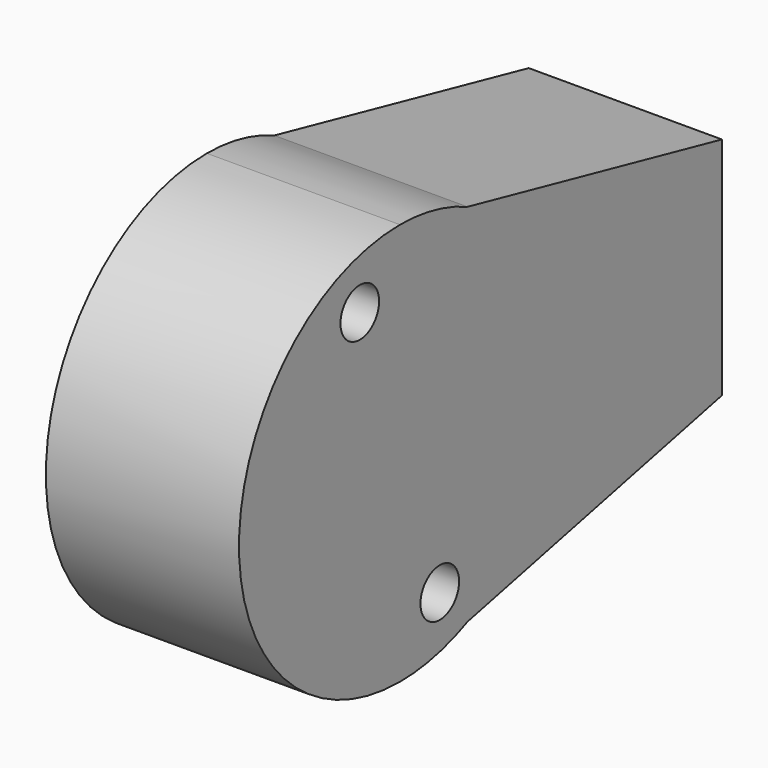
from build123d import *

# Parameters (mm, degrees)
F1_DEPTH = 12
F2_R     = 4
F3_DEPTH = 10
F4_R     = 7.55
F5_DEPTH = 4
F6_R     = 1.5
F7_DEPTH = 25


with BuildPart() as f1:
    # F0 (on Right) → F1 (new body)
    with BuildSketch(Plane.YZ):
        with BuildLine():
            Line((5.246089, 11.34586), (0, 12.5))
            ThreePointArc((0, 12.5), (-12.5, 0), (0, -12.5))
            Line((0, -12.5), (5.246089, -11.34586))
            ThreePointArc((5.246089, -11.34586), (10.531527, -6.733271), (12.5, 0))
            ThreePointArc((12.5, 0), (10.531527, 6.733271), (5.246089, 11.34586))
        make_face()
        Polygon((7.088382, 2.467421), (5.681041, -4.905009), (-1.407342, -7.37243), (-7.088382, -2.467421), (-5.681041, 4.905009), (1.407342, 7.37243), align=None, mode=Mode.SUBTRACT)
        with BuildLine():
            ThreePointArc((5.246089, 11.34586), (2.685772, 12.208056), (0, 12.5))
            Line((0, 12.5), (5.246089, 11.34586))
        make_face()
        with BuildLine():
            Line((5.246089, -11.34586), (0, -12.5))
            ThreePointArc((0, -12.5), (2.685772, -12.208056), (5.246089, -11.34586))
        make_face()
        with BuildLine():
            Line((25, 7), (5.246089, 11.34586))
            ThreePointArc((5.246089, 11.34586), (10.531527, 6.733271), (12.5, 0))
            ThreePointArc((12.5, 0), (10.531527, -6.733271), (5.246089, -11.34586))
            Line((5.246089, -11.34586), (25, -7))
            Line((25, -7), (25, 0))
            Line((25, 0), (25, 7))
        make_face()
    extrude(amount=F1_DEPTH)

    # F2 (on face) → F3 (cut)
    with BuildSketch(Plane(origin=(0, 25, 0), x_dir=(-1, 0, 0), z_dir=(0, 1, 0))):
        with Locations((-6, 0)):
            Circle(F2_R)
    extrude(amount=-F3_DEPTH, mode=Mode.SUBTRACT)

    # F4 (on face) → F5 (join)
    with BuildSketch(Plane.YZ.offset(12)):
        Circle(F4_R)
    extrude(amount=-F5_DEPTH)

    # F6 (on face) → F7 (cut)
    with BuildSketch(Plane(origin=(0, 0, 0), x_dir=(0, -1, 0), z_dir=(-1, 0, 0))):
        with Locations((3.123088, 8.971974)):
            Circle(F6_R)
        with Locations((-3.089254, -8.874777)):
            Circle(F6_R)
    extrude(amount=-F7_DEPTH, mode=Mode.SUBTRACT)


solid = f1.part
